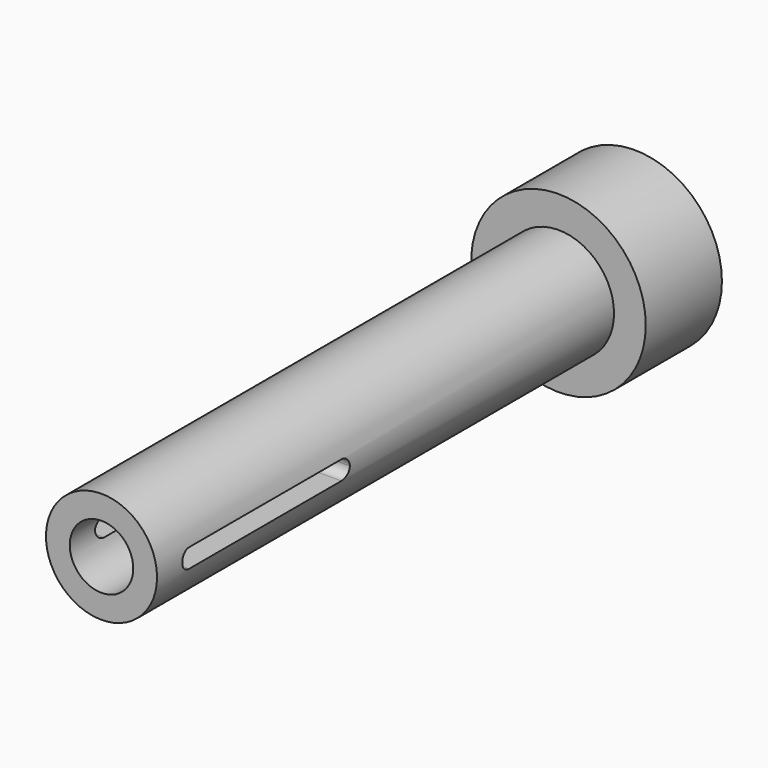
from build123d import *

# Parameters (mm, degrees)
F0_R     = 6.985
F0_R_2   = 1.27
F1_DEPTH = 7.62
F2_R     = 4.445
F2_R_2   = 1.27
F3_DEPTH = 45.72
F5_DEPTH = 25.4
F6_DEPTH = 25.4
F7_R     = 2.54
F7_R_2   = 1.27
F8_DEPTH = 20.32
F9_DEPTH = 25.4


with BuildPart() as f1:
    # F0 (on Front) → F1 (new body)
    with BuildSketch(Plane.XZ):
        Circle(F0_R)
        Circle(F0_R_2, mode=Mode.SUBTRACT)
        Circle(F0_R)
        Circle(F0_R_2, mode=Mode.SUBTRACT)
    extrude(amount=F1_DEPTH)

    # F2 (on face) → F3 (join)
    with BuildSketch(Plane.XZ.offset(7.62)):
        Circle(F2_R)
        Circle(F2_R_2, mode=Mode.SUBTRACT)
    extrude(amount=F3_DEPTH)

    # F4 (on Right) → F5 (cut)
    with BuildSketch(Plane.YZ):
        with BuildLine():
            ThreePointArc((-50.0528407257, 0.762), (-50.5916560929, 0.5388153673), (-50.8148407257, 0))
            Line((-50.8148407257, 0), (-50.0528407257, 0))
            Line((-50.0528407257, 0), (-50.0528407257, 0.762))
        make_face()
        with BuildLine():
            Line((-50.0528407257, 0), (-50.8148407257, 0))
            ThreePointArc((-50.8148407257, 0), (-50.5916560929, -0.5388153673), (-50.0528407257, -0.762))
            Line((-50.0528407257, -0.762), (-50.0528407257, 0))
        make_face()
        with BuildLine():
            Line((-50.0528407257, 0.762), (-50.0528407257, 0))
            Line((-50.0528407257, 0), (-49.2908407257, 0))
            ThreePointArc((-49.2908407257, 0), (-49.5140253584, 0.5388153673), (-50.0528407257, 0.762))
        make_face()
        with BuildLine():
            Line((-49.2908407257, 0), (-50.0528407257, 0))
            Line((-50.0528407257, 0), (-50.0528407257, -0.762))
            ThreePointArc((-50.0528407257, -0.762), (-49.5140253584, -0.5388153673), (-49.2908407257, 0))
        make_face()
        with BuildLine():
            Line((-34.8282884293, 0.7618434015), (-50.0528407257, 0.762))
            ThreePointArc((-50.0528407257, 0.762), (-49.5140253584, 0.5388153673), (-49.2908407257, 0))
            Line((-49.2908407257, 0), (-35.5748407257, 0))
            ThreePointArc((-35.5748407257, 0), (-35.3570902779, 0.533325815), (-34.8282884293, 0.7618434015))
        make_face()
        with BuildLine():
            ThreePointArc((-49.2908407257, 0), (-49.5140253584, -0.5388153673), (-50.0528407257, -0.762))
            Line((-50.0528407257, -0.762), (-34.8128407257, -0.762))
            ThreePointArc((-34.8128407257, -0.762), (-35.3516560929, -0.5388153673), (-35.5748407257, 0))
            Line((-35.5748407257, 0), (-49.2908407257, 0))
        make_face()
        with BuildLine():
            ThreePointArc((-34.0508407257, 0), (-34.2795149107, 0.5442495522), (-34.8282884293, 0.7618434015))
            ThreePointArc((-34.8282884293, 0.7618434015), (-35.3570902779, 0.533325815), (-35.5748407257, 0))
            Line((-35.5748407257, 0), (-34.0508407257, 0))
        make_face()
        with BuildLine():
            ThreePointArc((-35.5748407257, 0), (-35.3516560929, -0.5388153673), (-34.8128407257, -0.762))
            ThreePointArc((-34.8128407257, -0.762), (-34.2740253584, -0.5388153673), (-34.0508407257, 0))
            Line((-34.0508407257, 0), (-35.5748407257, 0))
        make_face()
    extrude(amount=-F5_DEPTH, mode=Mode.SUBTRACT)

    # F4 (on Right) → F6 (cut)
    with BuildSketch(Plane.YZ):
        with BuildLine():
            ThreePointArc((-50.0528407257, 0.762), (-50.5916560929, 0.5388153673), (-50.8148407257, 0))
            Line((-50.8148407257, 0), (-50.0528407257, 0))
            Line((-50.0528407257, 0), (-50.0528407257, 0.762))
        make_face()
        with BuildLine():
            Line((-50.0528407257, 0), (-50.8148407257, 0))
            ThreePointArc((-50.8148407257, 0), (-50.5916560929, -0.5388153673), (-50.0528407257, -0.762))
            Line((-50.0528407257, -0.762), (-50.0528407257, 0))
        make_face()
        with BuildLine():
            Line((-50.0528407257, 0.762), (-50.0528407257, 0))
            Line((-50.0528407257, 0), (-49.2908407257, 0))
            ThreePointArc((-49.2908407257, 0), (-49.5140253584, 0.5388153673), (-50.0528407257, 0.762))
        make_face()
        with BuildLine():
            Line((-49.2908407257, 0), (-50.0528407257, 0))
            Line((-50.0528407257, 0), (-50.0528407257, -0.762))
            ThreePointArc((-50.0528407257, -0.762), (-49.5140253584, -0.5388153673), (-49.2908407257, 0))
        make_face()
        with BuildLine():
            Line((-34.8282884293, 0.7618434015), (-50.0528407257, 0.762))
            ThreePointArc((-50.0528407257, 0.762), (-49.5140253584, 0.5388153673), (-49.2908407257, 0))
            Line((-49.2908407257, 0), (-35.5748407257, 0))
            ThreePointArc((-35.5748407257, 0), (-35.3570902779, 0.533325815), (-34.8282884293, 0.7618434015))
        make_face()
        with BuildLine():
            ThreePointArc((-49.2908407257, 0), (-49.5140253584, -0.5388153673), (-50.0528407257, -0.762))
            Line((-50.0528407257, -0.762), (-34.8128407257, -0.762))
            ThreePointArc((-34.8128407257, -0.762), (-35.3516560929, -0.5388153673), (-35.5748407257, 0))
            Line((-35.5748407257, 0), (-49.2908407257, 0))
        make_face()
        with BuildLine():
            ThreePointArc((-34.0508407257, 0), (-34.2795149107, 0.5442495522), (-34.8282884293, 0.7618434015))
            ThreePointArc((-34.8282884293, 0.7618434015), (-35.3570902779, 0.533325815), (-35.5748407257, 0))
            Line((-35.5748407257, 0), (-34.0508407257, 0))
        make_face()
        with BuildLine():
            ThreePointArc((-35.5748407257, 0), (-35.3516560929, -0.5388153673), (-34.8128407257, -0.762))
            ThreePointArc((-34.8128407257, -0.762), (-34.2740253584, -0.5388153673), (-34.0508407257, 0))
            Line((-34.0508407257, 0), (-35.5748407257, 0))
        make_face()
    extrude(amount=F6_DEPTH, mode=Mode.SUBTRACT)

    # F7 (on face) → F8 (cut)
    with BuildSketch(Plane.XZ.offset(53.34)):
        Circle(F7_R)
        Circle(F7_R_2, mode=Mode.SUBTRACT)
    extrude(amount=-F8_DEPTH, mode=Mode.SUBTRACT)

    # F9 (cut): a face of the model
    f9_faces = [f1.faces().sort_by_distance(p)[0] for p in [
        (-2.468157951, -33.02, 0),
    ]]
    extrude(f9_faces, amount=-F9_DEPTH, mode=Mode.SUBTRACT)


solid = f1.part
